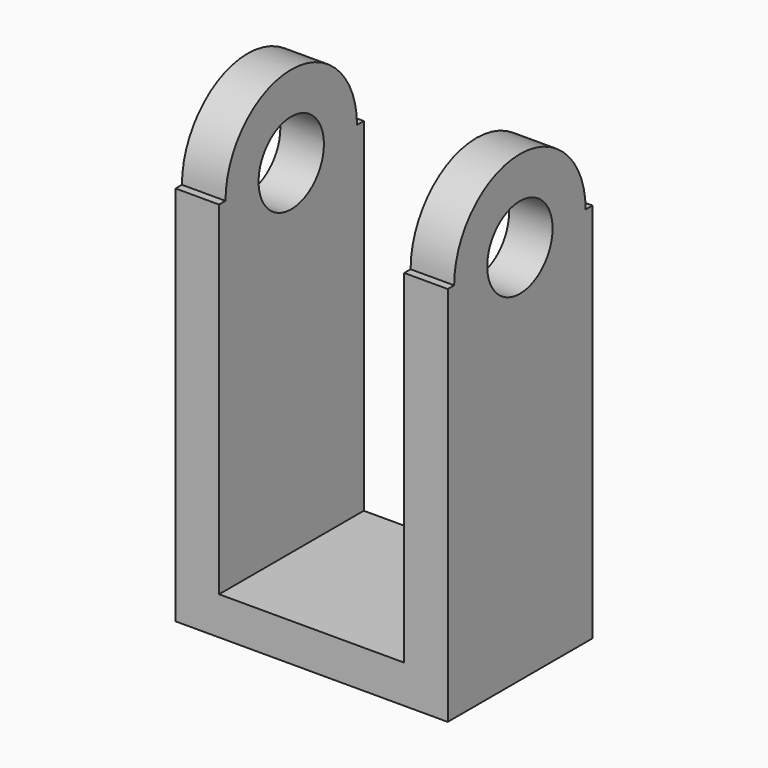
from build123d import *

# Parameters (mm, degrees)
F0_R     = 19.05
F1_DEPTH = 20.32
F2_W     = 84.38881
F2_H     = 17.738584
F3_DEPTH = 43.18


with BuildPart() as f1:
    # F0 (on Right) → F1 (new body)
    with BuildSketch(Plane.YZ):
        with BuildLine():
            Line((-38.34097, 0), (-42.069936, 0))
            Line((-42.069936, 0), (-42.069936, -177.8))
            Line((-42.069936, -177.8), (42.318874, -177.8))
            Line((42.318874, -177.8), (42.318874, 0))
            Line((42.318874, 0), (38.34097, 0))
            ThreePointArc((38.34097, 0), (0, 38.34097), (-38.34097, 0))
        make_face()
        Circle(F0_R, mode=Mode.SUBTRACT)
    extrude(amount=F1_DEPTH)

    # F2 (on face) → F3 (join)
    with BuildSketch(Plane.YZ.offset(20.32)):
        with Locations((0.124469, -168.930708)):
            Rectangle(F2_W, F2_H)
    extrude(amount=F3_DEPTH)

    # F4: F1 across face


with BuildPart() as f1_1:
    add(f1.part)
    add(f1.part.mirror(Plane(origin=(63.5, 0.124469, -168.930708), x_dir=(0, 1, 0), z_dir=(1, 0, 0))))


solid = f1_1.part
